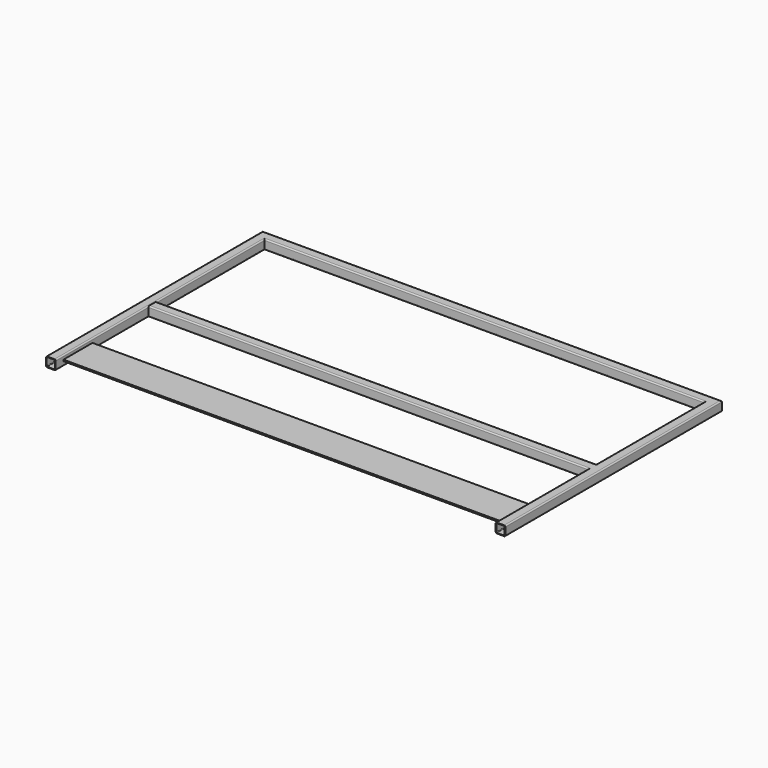
from build123d import *

# Parameters (mm, degrees)
F5_W     = 150
F5_H     = 6
F6_DEPTH = 1820
F8_D     = 23


with BuildPart() as f2:
    # F2: sweep along a path in F1
    with BuildLine(Plane.XY) as f2_path:
        Line((0, 0), (0, 1100))
        Line((0, 1100), (1860, 1100))
        Line((1860, 1100), (1860, 0))
    # F0 (on Front) → F2 (sweep)
    with BuildSketch(Plane.XZ):
        with BuildLine():
            Line((-15, -20), (15, -20))
            ThreePointArc((15, -20), (18.5355339059, -18.5355339059), (20, -15))
            Line((20, -15), (20, 15))
            ThreePointArc((20, 15), (18.5355339059, 18.5355339059), (15, 20))
            Line((15, 20), (-15, 20))
            ThreePointArc((-15, 20), (-18.5355339059, 18.5355339059), (-20, 15))
            Line((-20, 15), (-20, -15))
            ThreePointArc((-20, -15), (-18.5355339059, -18.5355339059), (-15, -20))
        make_face()
        with BuildLine():
            ThreePointArc((-15, -17.5), (-16.767766953, -16.767766953), (-17.5, -15))
            Line((-17.5, -15), (-17.5, 15))
            ThreePointArc((-17.5, 15), (-16.767766953, 16.767766953), (-15, 17.5))
            Line((-15, 17.5), (15, 17.5))
            ThreePointArc((15, 17.5), (16.767766953, 16.767766953), (17.5, 15))
            Line((17.5, 15), (17.5, -15))
            ThreePointArc((17.5, -15), (16.767766953, -16.767766953), (15, -17.5))
            Line((15, -17.5), (-15, -17.5))
        make_face(mode=Mode.SUBTRACT)
    sweep(path=f2_path.line, transition=Transition.RIGHT)

    # F3 (on face) → F4 (join, up to the next surface of F2)
    with BuildSketch(Plane.YZ.offset(20)):
        with BuildLine():
            Line((485, -20), (515, -20))
            ThreePointArc((515, -20), (518.5355339059, -18.5355339059), (520, -15))
            Line((520, -15), (520, 15))
            ThreePointArc((520, 15), (518.5355339059, 18.5355339059), (515, 20))
            Line((515, 20), (485, 20))
            ThreePointArc((485, 20), (481.4644660941, 18.5355339059), (480, 15))
            Line((480, 15), (480, -15))
            ThreePointArc((480, -15), (481.4644660941, -18.5355339059), (485, -20))
        make_face()
        with BuildLine():
            ThreePointArc((485, -17.5), (483.232233047, -16.767766953), (482.5, -15))
            Line((482.5, -15), (482.5, 15))
            ThreePointArc((482.5, 15), (483.232233047, 16.767766953), (485, 17.5))
            Line((485, 17.5), (515, 17.5))
            ThreePointArc((515, 17.5), (516.767766953, 16.767766953), (517.5, 15))
            Line((517.5, 15), (517.5, -15))
            ThreePointArc((517.5, -15), (516.767766953, -16.767766953), (515, -17.5))
            Line((515, -17.5), (485, -17.5))
        make_face(mode=Mode.SUBTRACT)
    extrude(until=Until.NEXT)

    # F5 (on face) → F6 (join, through all)
    with BuildSketch(Plane.YZ.offset(20)):
        with Locations((115, 0.7091578767)):
            Rectangle(F5_W, F5_H)
    extrude(amount=F6_DEPTH)

    # F8 (through all)
    with Locations(Plane(origin=(0, 1120, 0), x_dir=(-1, 0, 0), z_dir=(0, 1, 0))):
        with Locations((0, 0), (-1860, 0)):
            Hole(F8_D / 2)


solid = f2.part
